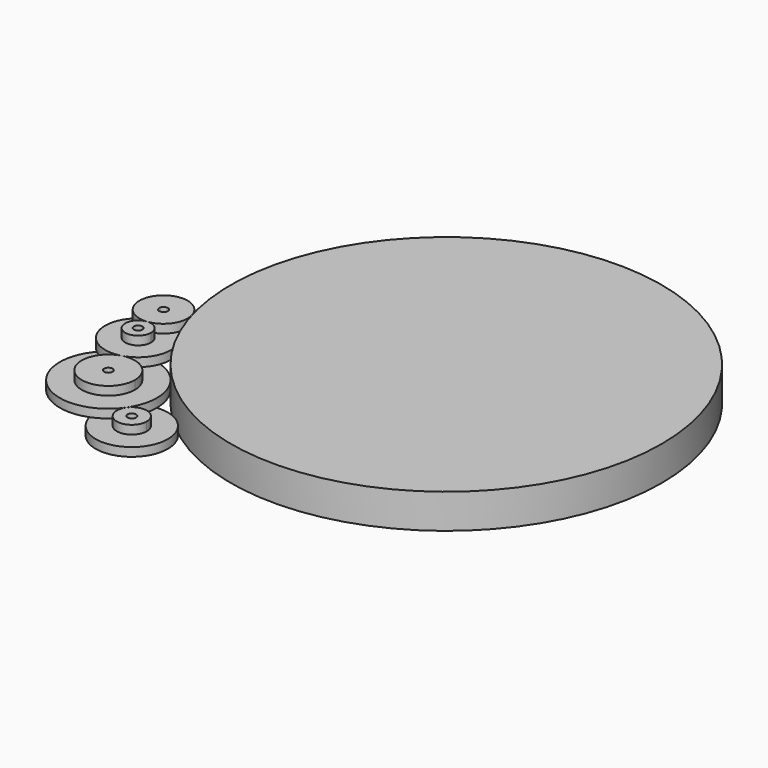
from build123d import *

# Parameters (mm, degrees)
F0_R      = 75
F1_DEPTH  = 9
F2_R      = 16.9251457535
F2_R_2    = 1.5
F3_DEPTH  = 3
F4_R      = 1.5
F5_DEPTH  = 3
F6_R      = 1.5
F7_DEPTH  = 3
F8_R      = 75
F9_DEPTH  = 3
F10_R     = 5.20314003
F10_R_2   = 1.5
F11_DEPTH = 3
F12_R     = 12.5630950787
F12_R_2   = 1.5
F13_DEPTH = 3


with BuildPart() as f1:
    # F0 (on Top) → F1 (new body)
    with BuildSketch(Plane.XY):
        Circle(F0_R)
    extrude(amount=F1_DEPTH)

    # F2 (on Top) → F3 (join)
    with BuildSketch(Plane.XY):
        with Locations((-73.2205287294, -55.5786523261)):
            Circle(F2_R)
        with Locations((-73.2205287294, -55.5786523261)):
            Circle(F2_R_2, mode=Mode.SUBTRACT)
    extrude(amount=F3_DEPTH)

    # F8 (on face) → F9 (join)
    with BuildSketch(Plane(origin=(0, 0, 0), x_dir=(1, 0, 0), z_dir=(0, 0, -1))):
        Circle(F8_R)
    extrude(amount=F9_DEPTH)

    # F10 (on Top) → F11 (join)
    with BuildSketch(Plane.XY):
        with Locations((-54.9995288447, -68.1347741364)):
            Circle(F10_R)
        with Locations((-54.9995288447, -68.1347741364)):
            Circle(F10_R_2, mode=Mode.SUBTRACT)
    extrude(amount=F11_DEPTH)


with BuildPart() as f5:
    # F4 (on face) → F5 (new body)
    with BuildSketch(Plane.XY.offset(3)):
        with BuildLine():
            ThreePointArc((-75.7155200416, -46.6678433327), (-78.8124901295, -62.9514039335), (-63.9670159605, -55.5786523261))
            ThreePointArc((-63.9670159605, -55.5786523261), (-67.6285673294, -48.2059007187), (-75.7155200416, -46.6678433327))
        make_face()
        with Locations((-73.2205287294, -55.5786523261)):
            Circle(F4_R, mode=Mode.SUBTRACT)
    extrude(amount=F5_DEPTH)


with BuildPart() as f5b:
    # F4 (on face) → F5, piece 2 (new body)
    with BuildSketch(Plane.XY.offset(3)):
        with BuildLine():
            ThreePointArc((-67.3284730942, -35.6098939539), (-87.9609886893, -28.6704991503), (-75.7155200416, -46.6678433327))
            ThreePointArc((-75.7155200416, -46.6678433327), (-69.6624202088, -42.5492887575), (-67.3284730942, -35.6098939539))
        make_face()
        with Locations((-78.8117044491, -35.6098939539)):
            Circle(F4_R, mode=Mode.SUBTRACT)
    extrude(amount=F5_DEPTH)


with BuildPart() as f7:
    # F6 (on face) → F7 (new body)
    with BuildSketch(Plane.XY.offset(6)):
        with BuildLine():
            ThreePointArc((-79.2995726934, -31.1487937614), (-81.8075369853, -38.9512137181), (-74.324006782, -35.6098939539))
            ThreePointArc((-74.324006782, -35.6098939539), (-75.8158719129, -32.2685741897), (-79.2995726934, -31.1487937614))
        make_face()
        with Locations((-78.8117044491, -35.6098939539)):
            Circle(F6_R, mode=Mode.SUBTRACT)
    extrude(amount=F7_DEPTH)


with BuildPart() as f7b:
    # F6 (on face) → F7, piece 2 (new body)
    with BuildSketch(Plane.XY.offset(6)):
        with BuildLine():
            ThreePointArc((-71.8205325584, -22.8072506442), (-86.4595419823, -17.2055236133), (-79.2995726934, -31.1487937614))
            ThreePointArc((-79.2995726934, -31.1487937614), (-73.9640755278, -28.4089776752), (-71.8205325584, -22.8072506442))
        make_face()
        with Locations((-80.211808755, -22.8072506442)):
            Circle(F6_R, mode=Mode.SUBTRACT)
    extrude(amount=F7_DEPTH)


with BuildPart() as f13:
    # F12 (on Top) → F13 (new body)
    with BuildSketch(Plane.XY):
        with Locations((-54.9995288447, -68.1347741364)):
            Circle(F12_R)
        with Locations((-54.9995288447, -68.1347741364)):
            Circle(F12_R_2, mode=Mode.SUBTRACT)
    extrude(amount=-F13_DEPTH)


solid = Compound([f1.part, f5.part, f5b.part, f7.part, f7b.part, f13.part])
